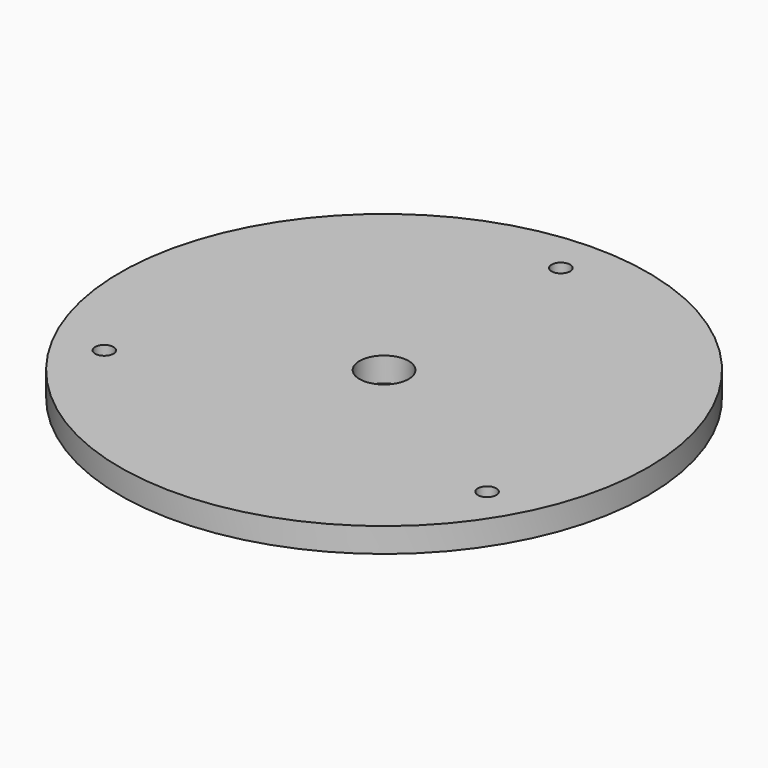
from build123d import *

# Parameters (mm, degrees)
SKETCH006_R     = 43
SKETCH006_R_2   = 1.5
SKETCH006_R_3   = 4
PAD_DEPTH       = 4
CHAMFER001_SIZE = 1.9


with BuildPart() as part:
    # Sketch006 → Pad (new body)
    with BuildSketch(Plane.XY.offset(22)):
        Circle(SKETCH006_R)
        with Locations((0, 36)):
            Circle(SKETCH006_R_2, mode=Mode.SUBTRACT)
        with Locations((31.176915, -18)):
            Circle(SKETCH006_R_2, mode=Mode.SUBTRACT)
        with Locations((-31.176915, -18)):
            Circle(SKETCH006_R_2, mode=Mode.SUBTRACT)
        Circle(SKETCH006_R_3, mode=Mode.SUBTRACT)
    extrude(amount=PAD_DEPTH)

    # Chamfer001
    chamfer001_edges = [part.edges().sort_by_distance(p)[0] for p in [
        (-32.676915, -18, 22),
        (29.676915, -18, 22),
        (-1.5, 36, 22),
    ]]
    chamfer(chamfer001_edges, length=CHAMFER001_SIZE)


solid = part.part
